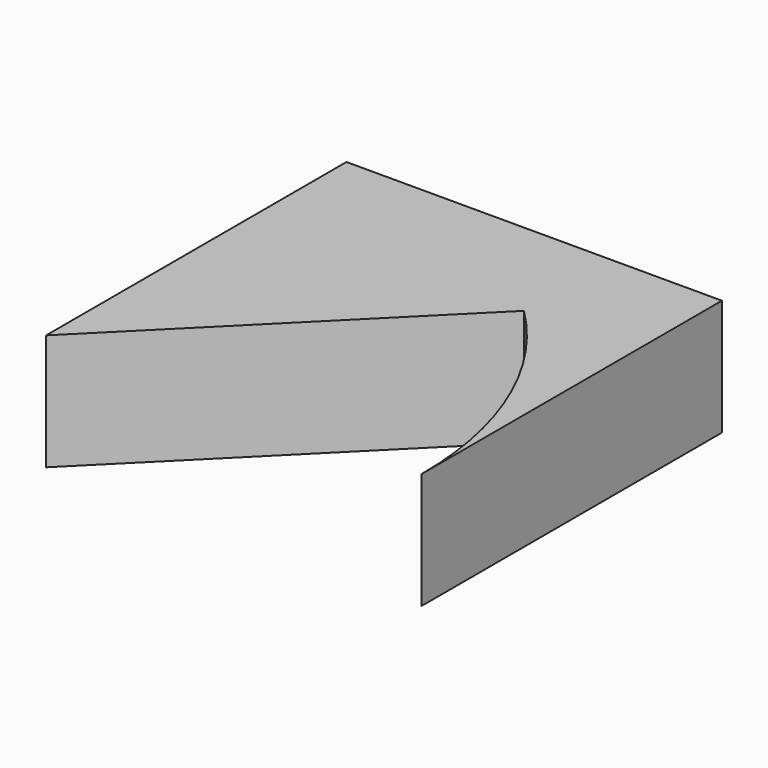
from build123d import *

# Parameters (mm, degrees)
F0_W      = 80.7959735394
F0_H      = 80.7959735394
F1_DEPTH  = 25
F1_FACE_W = 80.7959735394
F1_FACE_H = 25
F2_ANGLE  = 45


with BuildPart() as f1:
    # F0 (on Top) → F1 (new body)
    with BuildSketch(Plane.XY):
        Rectangle(F0_W, F0_H)
    extrude(amount=F1_DEPTH)

    # F1_face (on face) → F2 (revolve, cut)
    with BuildSketch(Plane(origin=(0, -40.3979867697, 12.5), x_dir=(1, 0, 0), z_dir=(0, -1, 0))):
        Rectangle(F1_FACE_W, F1_FACE_H)
    revolve(axis=Axis((-40.3979867697, -40.3979867697, 12.5), (0, 0, 1)), revolution_arc=F2_ANGLE, mode=Mode.SUBTRACT)


solid = f1.part
